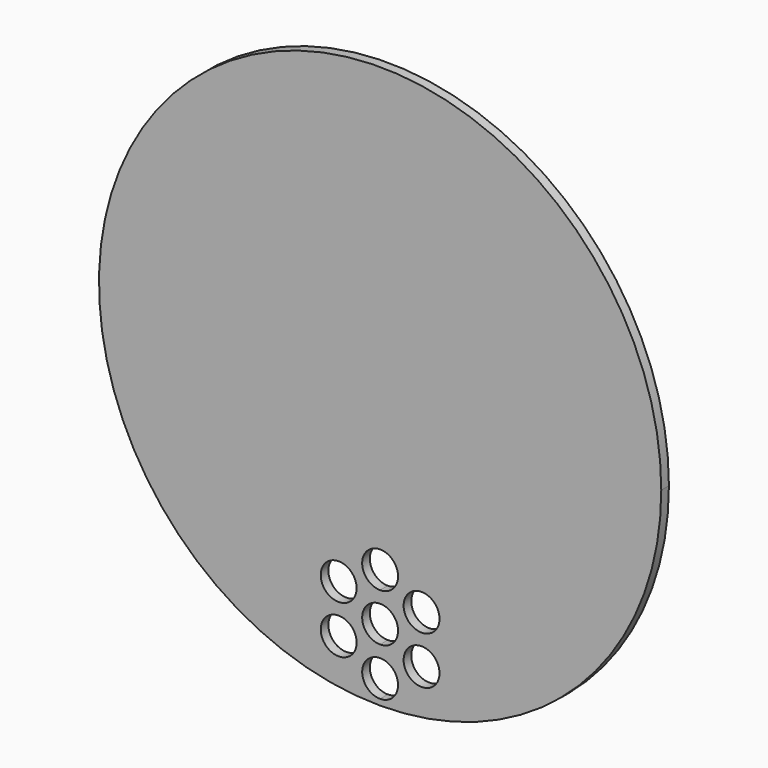
from build123d import *

# Parameters (mm, degrees)
F0_R     = 4.7625
F1_DEPTH = 2.54


with BuildPart() as f1:
    # F0 (on Front) → F1 (new body)
    with BuildSketch(Plane.XZ):
        with BuildLine():
            ThreePointArc((0, -74.6125), (52.759005, -52.759005), (74.6125, 0))
            ThreePointArc((74.6125, 0), (-52.759005, 52.759005), (0, -74.6125))
        make_face()
        with Locations((-10.998523, -61.9125)):
            Circle(F0_R, mode=Mode.SUBTRACT)
        with Locations((-10.998523, -49.2125)):
            Circle(F0_R, mode=Mode.SUBTRACT)
        with BuildLine():
            ThreePointArc((4.7625, -68.2625), (3.367596, -71.630096), (0, -73.025))
            ThreePointArc((0, -73.025), (-4.7625, -68.2625), (0, -63.5))
            ThreePointArc((0, -63.5), (3.367596, -64.894904), (4.7625, -68.2625))
        make_face(mode=Mode.SUBTRACT)
        with Locations((10.998523, -61.9125)):
            Circle(F0_R, mode=Mode.SUBTRACT)
        with BuildLine():
            ThreePointArc((4.7625, -55.5625), (3.367596, -58.930096), (0, -60.325))
            ThreePointArc((0, -60.325), (-4.7625, -55.5625), (0, -50.8))
            ThreePointArc((0, -50.8), (3.367596, -52.194904), (4.7625, -55.5625))
        make_face(mode=Mode.SUBTRACT)
        with Locations((10.998523, -49.2125)):
            Circle(F0_R, mode=Mode.SUBTRACT)
        with BuildLine():
            ThreePointArc((4.7625, -42.8625), (3.367596, -46.230096), (0, -47.625))
            ThreePointArc((0, -47.625), (-4.7625, -42.8625), (0, -38.1))
            ThreePointArc((0, -38.1), (3.367596, -39.494904), (4.7625, -42.8625))
        make_face(mode=Mode.SUBTRACT)
    extrude(amount=F1_DEPTH)


solid = f1.part
